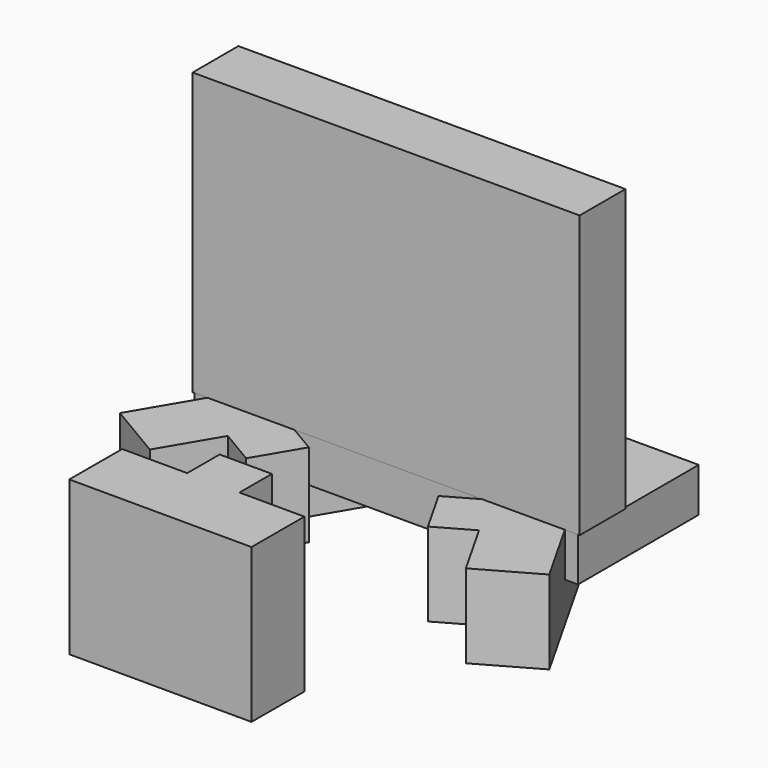
from build123d import *

# Parameters (mm, degrees)
SKETCH017_W               = 87.248978
SKETCH017_H               = 34.299007
EXTRUDE021_DEPTH          = 10
EXTRUDE022_DEPTH          = 19
EXTRUDE016_DEPTH          = 19
EXTRUDE019_DEPTH          = 35
SKETCH018_W               = 88
SKETCH018_H               = 13
EXTRUDE020_DEPTH          = 64
FUSION003_PLACEMENT_ANGLE = 180


with BuildPart() as extrude021:
    # Sketch017 → Extrude021 (new body)
    with BuildSketch(Plane.XY):
        with Locations((83.604523, 30.688192)):
            Rectangle(SKETCH017_W, SKETCH017_H)
    extrude(amount=EXTRUDE021_DEPTH)


with BuildPart() as extrude021_1:
    # Extrude021 placement: moved
    add(extrude021.part.moved(Location((3, 0, 9))))


with BuildPart() as extrude022:
    # Sketch019 → Extrude022 (new body)
    with BuildSketch(Plane.XY):
        Polygon((114.524362, 26.458614), (101.615411, 34.09792), (109.152859, 46.834751), (101.23537, 51.520192), (107.295886, 61.761293), (115.213376, 57.075852), (122.750824, 69.812683), (135.659775, 62.173377), align=None)
    extrude(amount=EXTRUDE022_DEPTH)


with BuildPart() as extrude016:
    # Sketch020 → Extrude016 (new body)
    with BuildSketch(Plane.XY):
        Polygon((37.353531, 63.041878), (50.403561, 70.4376), (57.700674, 57.56157), (65.704692, 62.097613), (71.571965, 51.744589), (63.567946, 47.208546), (70.865059, 34.332516), (57.815029, 26.936794), align=None)
    extrude(amount=EXTRUDE016_DEPTH)


with BuildPart() as extrude019:
    # Sketch021 → Extrude019 (new body)
    with BuildSketch(Plane.XY):
        Polygon((107.534802, 111.722114), (107.500671, 96.722153), (92.700709, 96.755829), (92.679776, 87.555852), (80.779807, 87.582929), (80.80074, 96.782905), (66.000778, 96.816581), (66.034909, 111.816542), align=None)
    extrude(amount=EXTRUDE019_DEPTH)


with BuildPart() as suporte004:
    # Sketch018 → Extrude020 (new body)
    with BuildSketch(Plane.XY):
        with Locations((83.577726, 41.368692)):
            Rectangle(SKETCH018_W, SKETCH018_H)
    extrude(amount=EXTRUDE020_DEPTH)


with BuildPart() as suporte004_1:
    # Extrude020 placement: moved
    add(suporte004.part.moved(Location((3, 0, 19))))

    # Fusion003: union Extrude021, Extrude022, Extrude016, Extrude019
    add(extrude021_1.part)
    add(extrude022.part)
    add(extrude016.part)
    add(extrude019.part)


with BuildPart() as suporte004_2:
    # Fusion003 placement: moved
    add(suporte004_1.part.moved(Location((303.5, 11, -42))).rotate(Axis((303.5, 11, -42), (0, 0, 1)), FUSION003_PLACEMENT_ANGLE))


solid = suporte004_2.part
